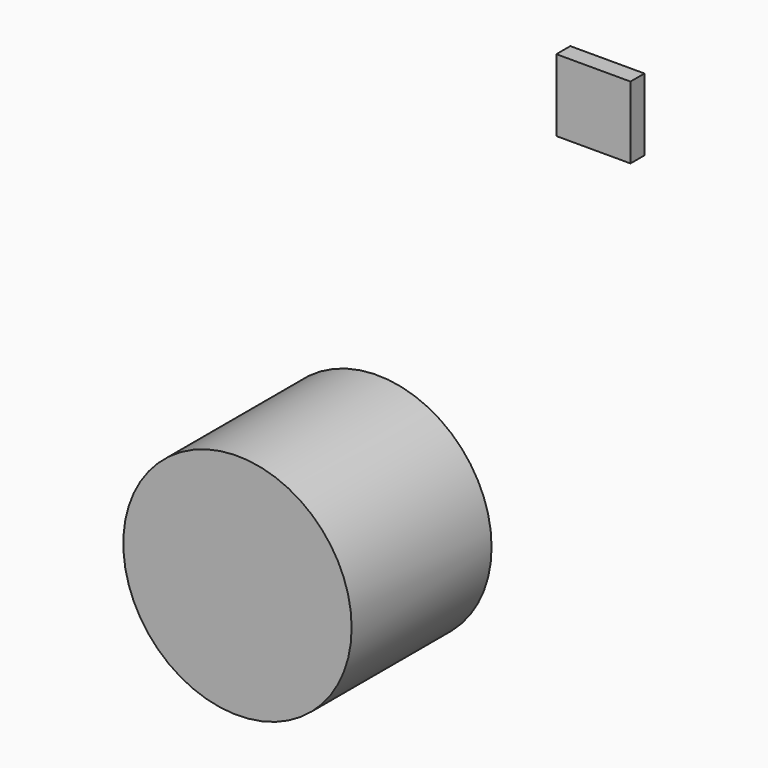
from build123d import *

# Parameters (mm, degrees)
F1_W     = 107.685536
F1_H     = 104.685948
F2_DEPTH = 25.4
F3_R     = 165.766633
F4_DEPTH = 254


with BuildPart() as f2:
    # F1 (on face) → F2 (new body)
    with BuildSketch(Plane.XZ):
        Rectangle(F1_W, F1_H)
    extrude(amount=F2_DEPTH)


with BuildPart() as f4:
    # F3 (on face) → F4 (new body)
    with BuildSketch(Plane.XZ):
        with Locations((-333.93355, -625.131581)):
            Circle(F3_R)
    extrude(amount=F4_DEPTH)


solid = Compound([f2.part, f4.part])
